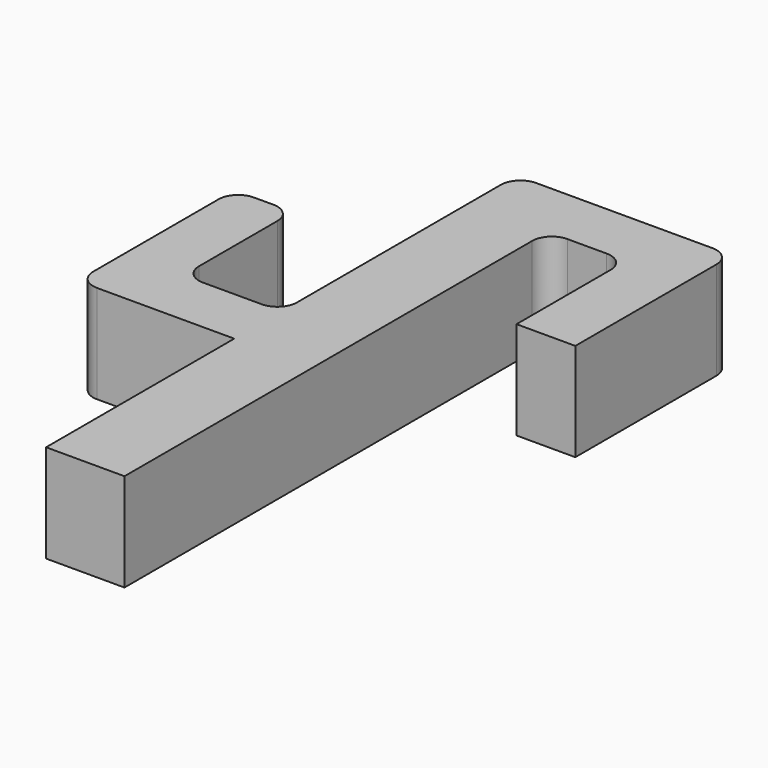
from build123d import *

# Parameters (mm, degrees)
F1_DEPTH = 5


with BuildPart() as f1:
    # F0 (on Top) → F1 (new body)
    with BuildSketch(Plane.XY):
        with BuildLine():
            Line((-3, 0), (0, 0))
            Line((0, 0), (0, 9))
            ThreePointArc((0, 9), (-0.292893, 9.707107), (-1, 10))
            Line((-1, 10), (-10, 10))
            ThreePointArc((-10, 10), (-10.707107, 9.707107), (-11, 9))
            Line((-11, 9), (-11, -4))
            ThreePointArc((-11, -4), (-11.292893, -4.707107), (-12, -5))
            Line((-12, -5), (-15, -5))
            ThreePointArc((-15, -5), (-15.707107, -4.707107), (-16, -4))
            Line((-16, -4), (-16, 1))
            ThreePointArc((-16, 1), (-16.292893, 1.707107), (-17, 2))
            Line((-17, 2), (-18, 2))
            ThreePointArc((-18, 2), (-18.707107, 1.707107), (-19, 1))
            Line((-19, 1), (-19, -7))
            ThreePointArc((-19, -7), (-18.707107, -7.707107), (-18, -8))
            Line((-18, -8), (-11, -8))
            Line((-11, -8), (-11, -20))
            Line((-11, -20), (-7, -20))
            Line((-7, -20), (-7, 6))
            ThreePointArc((-7, 6), (-6.707107, 6.707107), (-6, 7))
            Line((-6, 7), (-4, 7))
            ThreePointArc((-4, 7), (-3.292893, 6.707107), (-3, 6))
            Line((-3, 6), (-3, 0))
        make_face()
    extrude(amount=F1_DEPTH)


solid = f1.part
